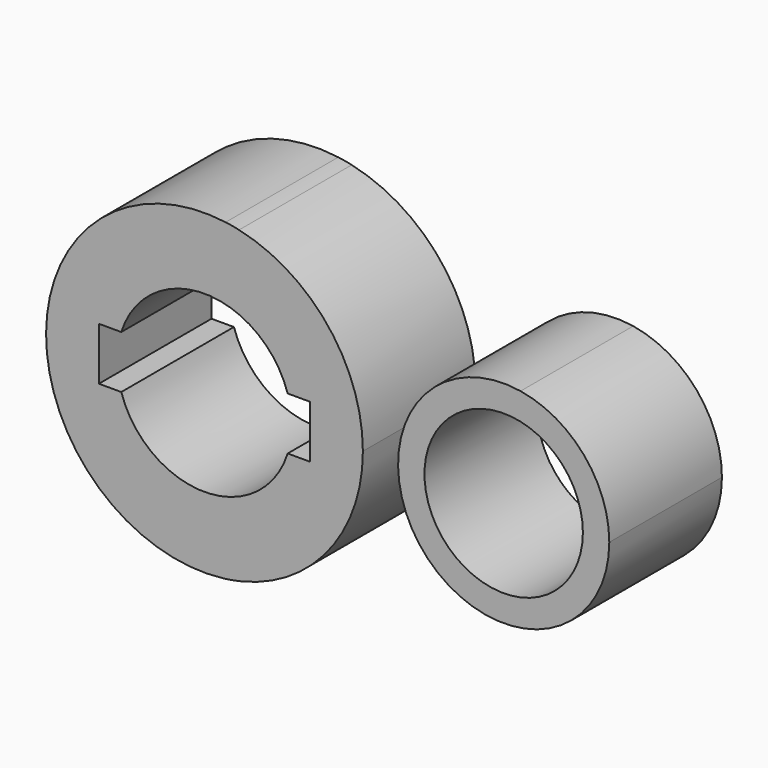
from build123d import *

# Parameters (mm, degrees)
F0_R     = 14.2875
F1_DEPTH = 25.4


with BuildPart() as f1:
    # F0 (on Front) → F1 (new body)
    with BuildSketch(Plane.XZ):
        with BuildLine():
            Line((6.237397, 27.885937), (3.813149, 28.319437))
            ThreePointArc((3.813149, 28.319437), (-28.574421, 0.181936), (3.452229, -28.365697))
            Line((3.452229, -28.365697), (6.571103, -27.809193))
            ThreePointArc((6.571103, -27.809193), (22.408703, -17.730783), (28.575, 0))
            ThreePointArc((28.575, 0), (22.302065, 17.864728), (6.237397, 27.885937))
        make_face()
        with BuildLine():
            ThreePointArc((-15.008458, 4.7625), (0, 15.745959), (15.008458, 4.7625))
            Line((15.008458, 4.7625), (19.05, 4.7625))
            Line((19.05, 4.7625), (19.05, -4.7625))
            Line((19.05, -4.7625), (15.008458, -4.7625))
            ThreePointArc((15.008458, -4.7625), (0, -15.745959), (-15.008458, -4.7625))
            Line((-15.008458, -4.7625), (-19.05, -4.7625))
            Line((-19.05, -4.7625), (-19.05, 4.7625))
            Line((-19.05, 4.7625), (-15.008458, 4.7625))
        make_face(mode=Mode.SUBTRACT)
        with BuildLine():
            ThreePointArc((73.025, 0), (68.482388, 12.346586), (57.02099, 18.804905))
            ThreePointArc((57.02099, 18.804905), (39.467612, -12.346586), (73.025, 0))
        make_face()
        with Locations((53.975, 0)):
            Circle(F0_R, mode=Mode.SUBTRACT)
        with BuildLine():
            ThreePointArc((6.237397, 27.885937), (5.029945, 28.128816), (3.813149, 28.319437))
            Line((3.813149, 28.319437), (6.237397, 27.885937))
        make_face()
        with BuildLine():
            Line((6.571103, -27.809193), (3.452229, -28.365697))
            ThreePointArc((3.452229, -28.365697), (5.019384, -28.130702), (6.571103, -27.809193))
        make_face()
    extrude(amount=F1_DEPTH)


solid = f1.part
